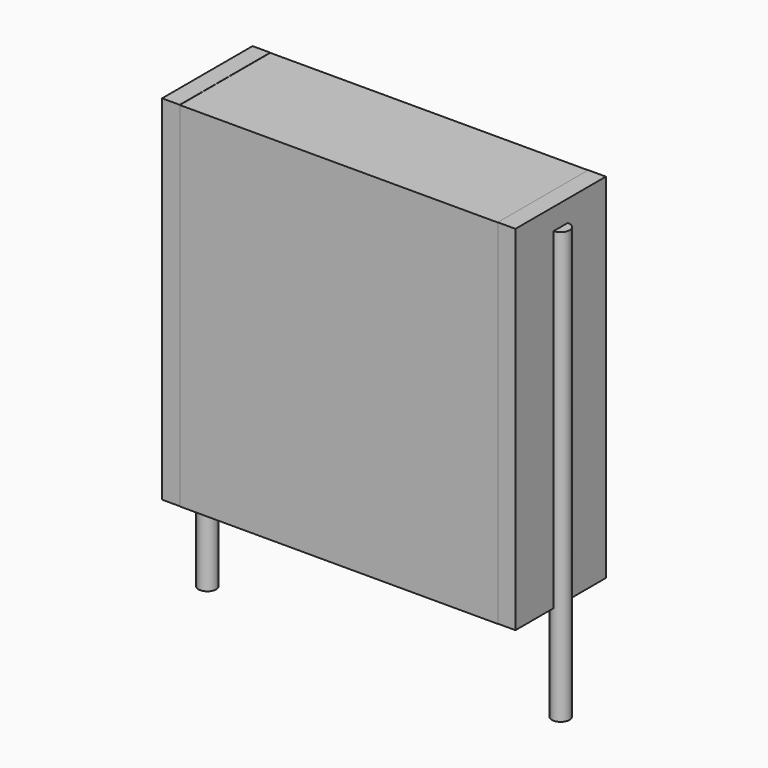
from build123d import *

# Parameters (mm, degrees)
SKETCH_W          = 9
SKETCH_H          = 3.2
PAD_DEPTH         = 10
SKETCH001_R       = 0.25
PAD001_DEPTH      = 9
PAD001_DEPTH_BACK = 3.2
SKETCH002_W       = 0.5
SKETCH002_H       = 3.2
PAD002_DEPTH      = 10


with BuildPart() as pad:
    # Sketch → Pad (new body)
    with BuildSketch(Plane.XY.offset(0.1)):
        with Locations((5, 0)):
            Rectangle(SKETCH_W, SKETCH_H)
    extrude(amount=PAD_DEPTH)


with BuildPart() as pad001:
    # Sketch001 → Pad001 (new body, two sides)
    with BuildSketch(Plane.XY.offset(0.5)) as pad001_sk:
        Circle(SKETCH001_R)
        with Locations((10, 0)):
            Circle(SKETCH001_R)
    extrude(amount=PAD001_DEPTH)
    extrude(pad001_sk.sketch, amount=-PAD001_DEPTH_BACK)


with BuildPart() as pad002:
    # Sketch002 → Pad002 (new body)
    with BuildSketch(Plane.XY.offset(0.105)):
        with Locations((0.25, 0)):
            Rectangle(SKETCH002_W, SKETCH002_H)
        with Locations((9.75, 0)):
            Rectangle(SKETCH002_W, SKETCH002_H)
    extrude(amount=PAD002_DEPTH)


solid = Compound([pad.part, pad001.part, pad002.part])
